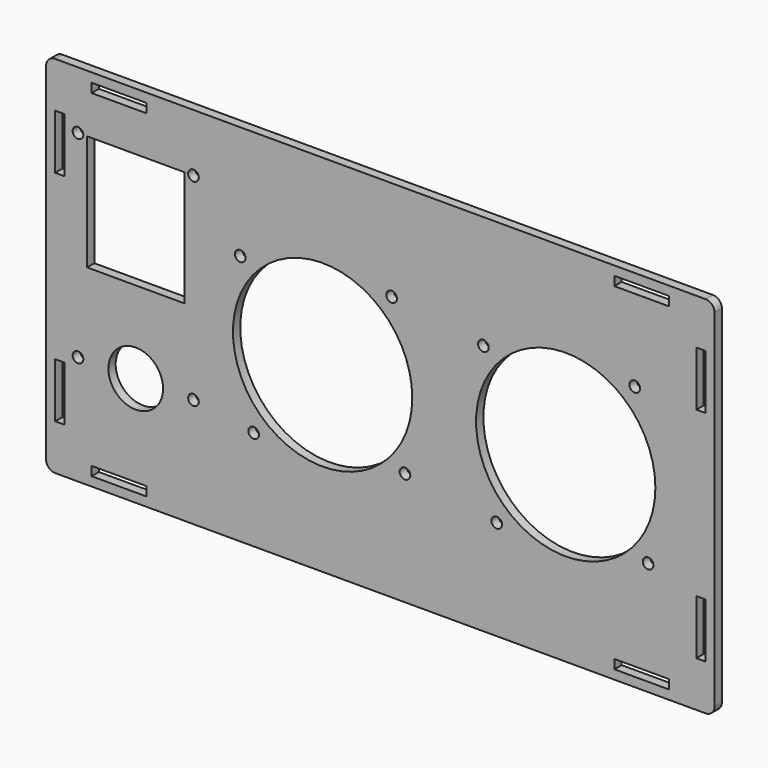
from build123d import *

# Parameters (mm, degrees)
F0_W     = 18
F0_H     = 3
F0_W_2   = 3
F0_H_2   = 18
F0_R     = 1.75
F0_R_2   = 9
F0_W_3   = 32
F0_H_3   = 38
F0_R_3   = 29.5
F1_DEPTH = 3


with BuildPart() as f1:
    # F0 (on Front) → F1 (new body)
    with BuildSketch(Plane.XZ):
        with BuildLine():
            Line((107, 60), (-107, 60))
            ThreePointArc((-107, 60), (-109.12132, 59.12132), (-110, 57))
            Line((-110, 57), (-110, -57))
            ThreePointArc((-110, -57), (-109.12132, -59.12132), (-107, -60))
            Line((-107, -60), (107, -60))
            ThreePointArc((107, -60), (109.12132, -59.12132), (110, -57))
            Line((110, -57), (110, 57))
            ThreePointArc((110, 57), (109.12132, 59.12132), (107, 60))
        make_face()
        with Locations((-86, -55.5)):
            Rectangle(F0_W, F0_H, mode=Mode.SUBTRACT)
        with Locations((-105.5, -36)):
            Rectangle(F0_W_2, F0_H_2, mode=Mode.SUBTRACT)
        with Locations((-99.5, -24)):
            Circle(F0_R, mode=Mode.SUBTRACT)
        with Locations((-80.5, -24)):
            Circle(F0_R_2, mode=Mode.SUBTRACT)
        with Locations((-61.5, -24)):
            Circle(F0_R, mode=Mode.SUBTRACT)
        with Locations((-41.7, -27.1)):
            Circle(F0_R, mode=Mode.SUBTRACT)
        with Locations((86, -55.5)):
            Rectangle(F0_W, F0_H, mode=Mode.SUBTRACT)
        with Locations((105.5, -36)):
            Rectangle(F0_W_2, F0_H_2, mode=Mode.SUBTRACT)
        with Locations((8.1, -22.7)):
            Circle(F0_R, mode=Mode.SUBTRACT)
        with Locations((38.3, -27.1)):
            Circle(F0_R, mode=Mode.SUBTRACT)
        with Locations((88.1, -22.7)):
            Circle(F0_R, mode=Mode.SUBTRACT)
        with Locations((-80.5, 22)):
            Rectangle(F0_W_3, F0_H_3, mode=Mode.SUBTRACT)
        with Locations((-19, 0)):
            Circle(F0_R_3, mode=Mode.SUBTRACT)
        with Locations((-46.1, 22.7)):
            Circle(F0_R, mode=Mode.SUBTRACT)
        with Locations((-105.5, 36)):
            Rectangle(F0_W_2, F0_H_2, mode=Mode.SUBTRACT)
        with Locations((-99.5, 41)):
            Circle(F0_R, mode=Mode.SUBTRACT)
        with Locations((-61.5, 41)):
            Circle(F0_R, mode=Mode.SUBTRACT)
        with Locations((-86, 55.5)):
            Rectangle(F0_W, F0_H, mode=Mode.SUBTRACT)
        with Locations((3.7, 27.1)):
            Circle(F0_R, mode=Mode.SUBTRACT)
        with Locations((33.9, 22.7)):
            Circle(F0_R, mode=Mode.SUBTRACT)
        with Locations((61, 0)):
            Circle(F0_R_3, mode=Mode.SUBTRACT)
        with Locations((83.7, 27.1)):
            Circle(F0_R, mode=Mode.SUBTRACT)
        with Locations((105.5, 36)):
            Rectangle(F0_W_2, F0_H_2, mode=Mode.SUBTRACT)
        with Locations((86, 55.5)):
            Rectangle(F0_W, F0_H, mode=Mode.SUBTRACT)
    extrude(amount=F1_DEPTH)


solid = f1.part
